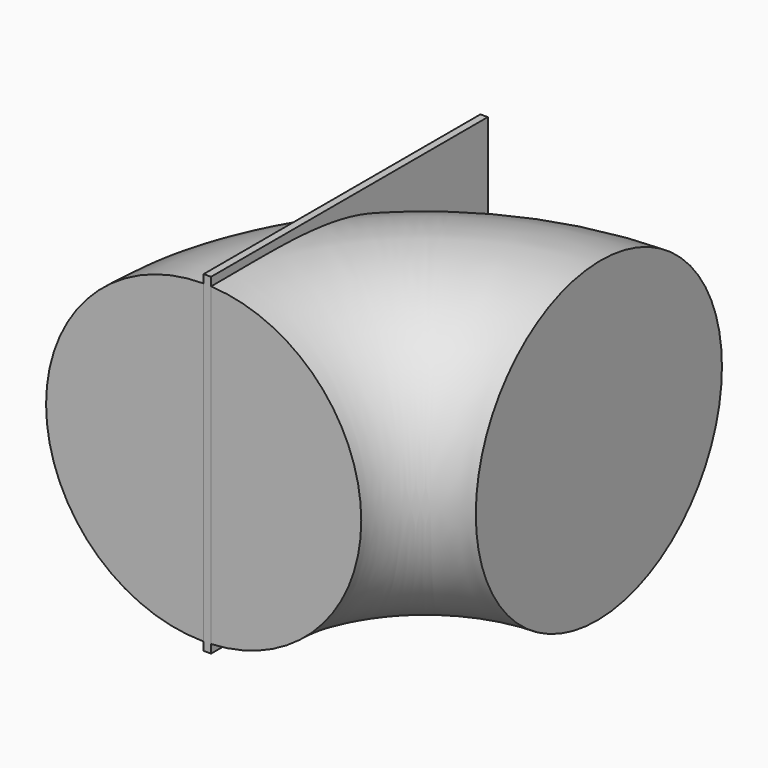
from build123d import *

# Parameters (mm, degrees)
F0_R     = 38
F3_W     = 1.781586
F3_H     = 83.407097
F4_DEPTH = 40


with BuildPart() as f2:
    # F2: sweep along a path in F1
    with BuildLine(Plane.XY) as f2_path:
        ThreePointArc((0, 0), (15.31537, 37.476375), (52.494437, 53.499988))
    # F0 (on Front) → F2 (sweep)
    with BuildSketch(Plane.XZ):
        Circle(F0_R)
    sweep(path=f2_path.line)

    # F3 (on Top) → F4 (join, symmetric)
    with BuildSketch(Plane.XY):
        with Locations((0.890793, 41.703548)):
            Rectangle(F3_W, F3_H)
    extrude(amount=F4_DEPTH, both=True)


solid = f2.part
